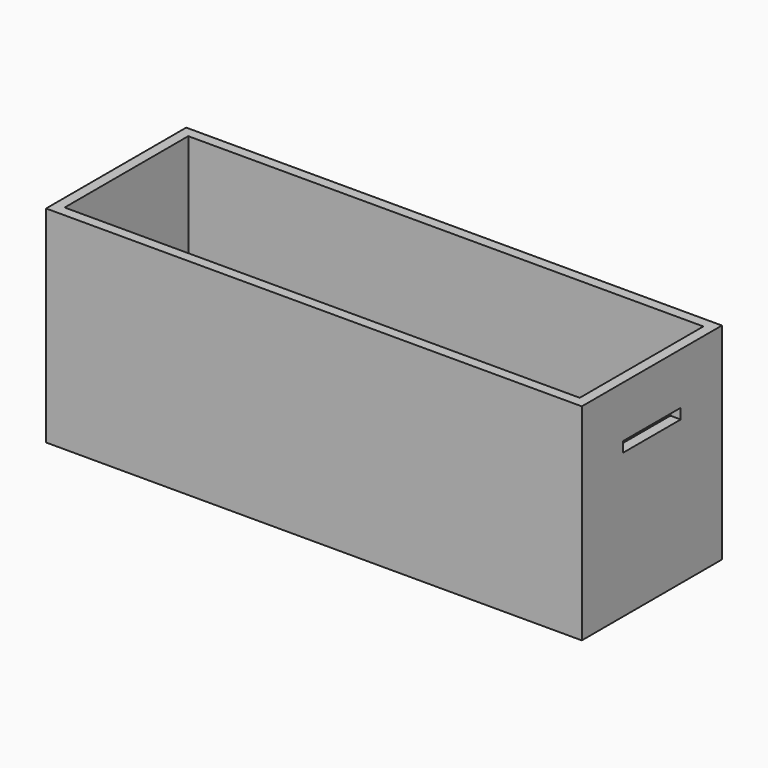
from build123d import *

# Parameters (mm, degrees)
PAD_DEPTH       = 3
SKETCH001_R     = 1.5
POCKET_DEPTH    = 5
SKETCH002_W     = 104
SKETCH002_H     = 34
PAD001_DEPTH    = 40
THICKNESS_T     = -2
POCKET001_DEPTH = 5
SKETCH003_R     = 3
SKETCH003_W     = 8
SKETCH003_H     = 3
POCKET002_DEPTH = 5
SKETCH004_W     = 14
SKETCH004_H     = 2
POCKET003_DEPTH = 5


with BuildPart() as part:
    # Sketch → Pad (new body)
    with BuildSketch(Plane.XY):
        Polygon((-50, 15), (-50, -15), (50, -15), (50, 14.99989), align=None)
    extrude(amount=PAD_DEPTH)

    # Sketch001 (on Face6 of Pad) → Pocket (cut)
    with BuildSketch(Plane.XY.offset(3)):
        with Locations((-47, 12)):
            Circle(SKETCH001_R)
        with Locations((-47, -12)):
            Circle(SKETCH001_R)
        with Locations((0, 11.99989)):
            Circle(SKETCH001_R)
        with Locations((0, -12)):
            Circle(SKETCH001_R)
        with Locations((7, 11.99989)):
            Circle(SKETCH001_R)
        with Locations((7, -12)):
            Circle(SKETCH001_R)
        with Locations((36, 11.99989)):
            Circle(SKETCH001_R)
        with Locations((36, -12)):
            Circle(SKETCH001_R)
    extrude(amount=-POCKET_DEPTH, mode=Mode.SUBTRACT)

    # Sketch002 → Pad001 (join)
    with BuildSketch(Plane.XY):
        Rectangle(SKETCH002_W, SKETCH002_H)
    extrude(amount=PAD001_DEPTH)

    # Thickness
    thickness_openings = [part.faces().sort_by_distance(p)[0] for p in [
        (0, 0, 40),
    ]]
    offset(amount=THICKNESS_T, openings=thickness_openings)

    # Sketch001 (on Face6 of Pad) → Pocket001 (cut)
    with BuildSketch(Plane.XY.offset(3)):
        with Locations((-47, 12)):
            Circle(SKETCH001_R)
        with Locations((-47, -12)):
            Circle(SKETCH001_R)
        with Locations((0, 11.99989)):
            Circle(SKETCH001_R)
        with Locations((0, -12)):
            Circle(SKETCH001_R)
        with Locations((7, 11.99989)):
            Circle(SKETCH001_R)
        with Locations((7, -12)):
            Circle(SKETCH001_R)
        with Locations((36, 11.99989)):
            Circle(SKETCH001_R)
        with Locations((36, -12)):
            Circle(SKETCH001_R)
    extrude(amount=-POCKET001_DEPTH, mode=Mode.SUBTRACT)

    # Sketch003 (on Face1 of Pocket001) → Pocket002 (cut)
    with BuildSketch(Plane(origin=(-52, 0, 0), x_dir=(0, -1, 0), z_dir=(-1, 0, 0))):
        with Locations((0, 17)):
            Circle(SKETCH003_R)
        with Locations((0, 5.5)):
            Rectangle(SKETCH003_W, SKETCH003_H)
    extrude(amount=-POCKET002_DEPTH, mode=Mode.SUBTRACT)

    # Sketch004 (on Face11 of Pocket002) → Pocket003 (cut)
    with BuildSketch(Plane.YZ.offset(52)):
        with Locations((0, 29)):
            Rectangle(SKETCH004_W, SKETCH004_H)
    extrude(amount=-POCKET003_DEPTH, mode=Mode.SUBTRACT)


solid = part.part
